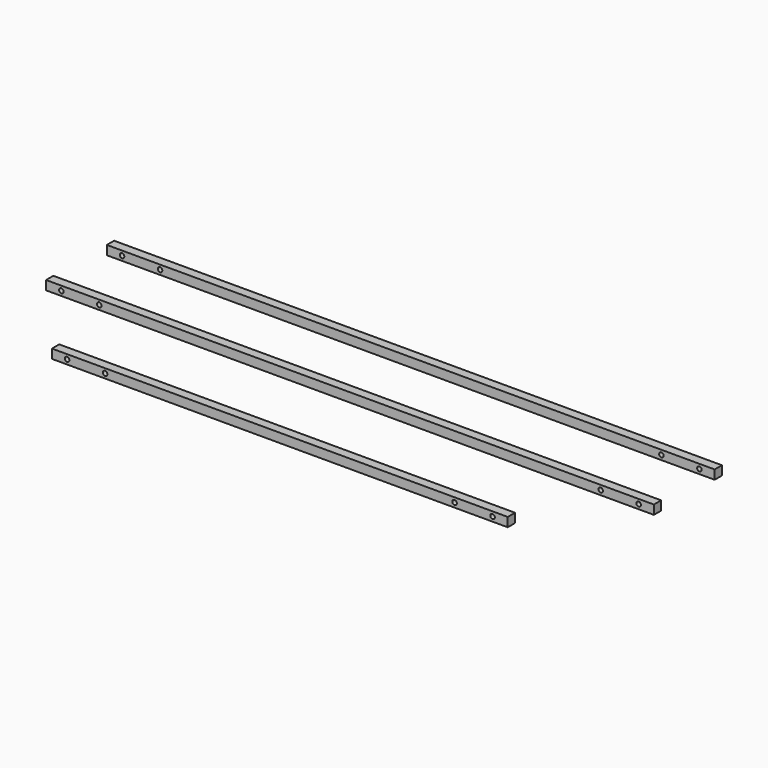
from build123d import *

# Parameters (mm, degrees)
F0_W      = 400
F0_H      = 6
F1_DEPTH  = 6
F2_W      = 400
F2_H      = 6
F3_DEPTH  = 6
F4_R      = 1.5
F5_DEPTH  = 6.001
F6_R      = 1.5
F7_DEPTH  = 56.001
F0_W_2    = 300
F8_DEPTH  = 6
F9_R      = 1.5
F10_DEPTH = 113.7042961427


with BuildPart() as f1:
    # F0 (on Top) → F1 (new body)
    with BuildSketch(Plane.XY):
        Rectangle(F0_W, F0_H)
    extrude(amount=F1_DEPTH)

    # F4 (on face) → F5 (cut, through all)
    with BuildSketch(Plane.XZ.offset(3)):
        with Locations((190, 3)):
            Circle(F4_R)
        with Locations((165, 3)):
            Circle(F4_R)
        with Locations((-190, 3)):
            Circle(F4_R)
        with Locations((-165, 3)):
            Circle(F4_R)
    extrude(amount=-F5_DEPTH, mode=Mode.SUBTRACT)


with BuildPart() as f3:
    # F2 (on Top) → F3 (new body)
    with BuildSketch(Plane.XY):
        with Locations((0, -50)):
            Rectangle(F2_W, F2_H)
    extrude(amount=F3_DEPTH)

    # F6 (on face) → F7 (cut, through all)
    with BuildSketch(Plane.XZ.offset(53)):
        with Locations((190, 3)):
            Circle(F6_R)
        with Locations((165, 3)):
            Circle(F6_R)
        with Locations((-190, 3)):
            Circle(F6_R)
        with Locations((-165, 3)):
            Circle(F6_R)
    extrude(amount=-F7_DEPTH, mode=Mode.SUBTRACT)


with BuildPart() as f8:
    # F0 (on Top) → F8 (new body)
    with BuildSketch(Plane.XY):
        with Locations((0, -107.7032961427)):
            Rectangle(F0_W_2, F0_H)
    extrude(amount=F8_DEPTH)

    # F9 (on face) → F10 (cut, through all)
    with BuildSketch(Plane.XZ.offset(110.7032961427)):
        with Locations((140, 3)):
            Circle(F9_R)
        with Locations((115, 3)):
            Circle(F9_R)
        with Locations((-115, 3)):
            Circle(F9_R)
        with Locations((-140, 3)):
            Circle(F9_R)
    extrude(amount=-F10_DEPTH, mode=Mode.SUBTRACT)


solid = Compound([f1.part, f3.part, f8.part])
